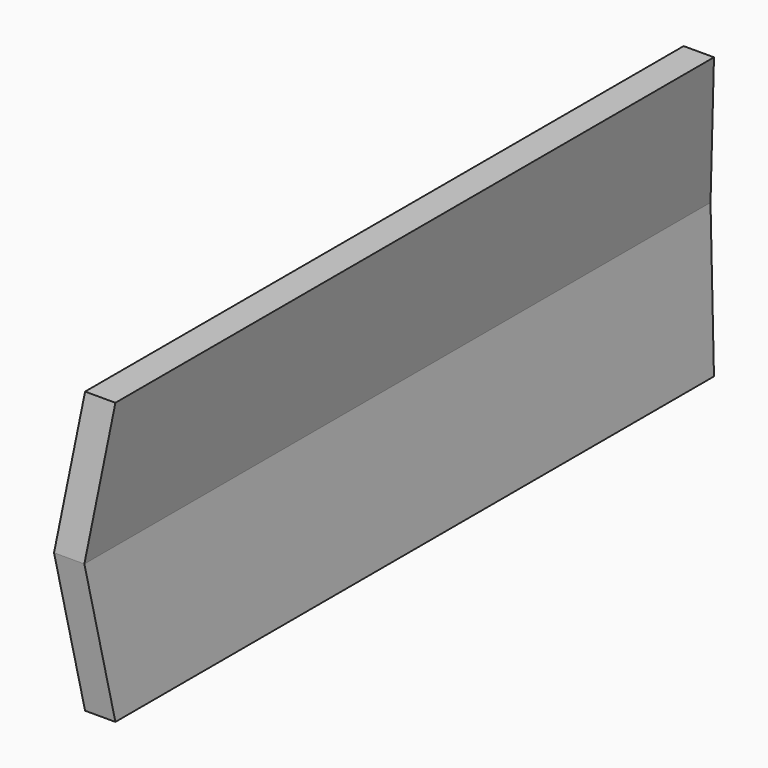
from build123d import *

# Parameters (mm, degrees)
F1_DEPTH = 460
F3_DEPTH = 37.493171


with BuildPart() as f1:
    # F0 (on Front) → F1 (new body)
    with BuildSketch(Plane.XZ):
        Polygon((0, 0), (15.112647, 0), (37.492171, 182.266595), (22.603979, 184.094635), align=None)
    extrude(amount=F1_DEPTH)

    # F2 (on Right) → F3 (intersect, through all)
    with BuildSketch(Plane.YZ):
        Polygon((-390, 0), (0, 0), (-8.594919, 70), (-381.405081, 70), align=None)
    extrude(amount=F3_DEPTH, mode=Mode.INTERSECT)

    # F4: F1 across face


with BuildPart() as f1_1:
    add(f1.part)
    add(f1.part.mirror(Plane(origin=(7.556324, -195, 0), x_dir=(1, 0, 0), z_dir=(0, 0, -1))))


solid = f1_1.part
